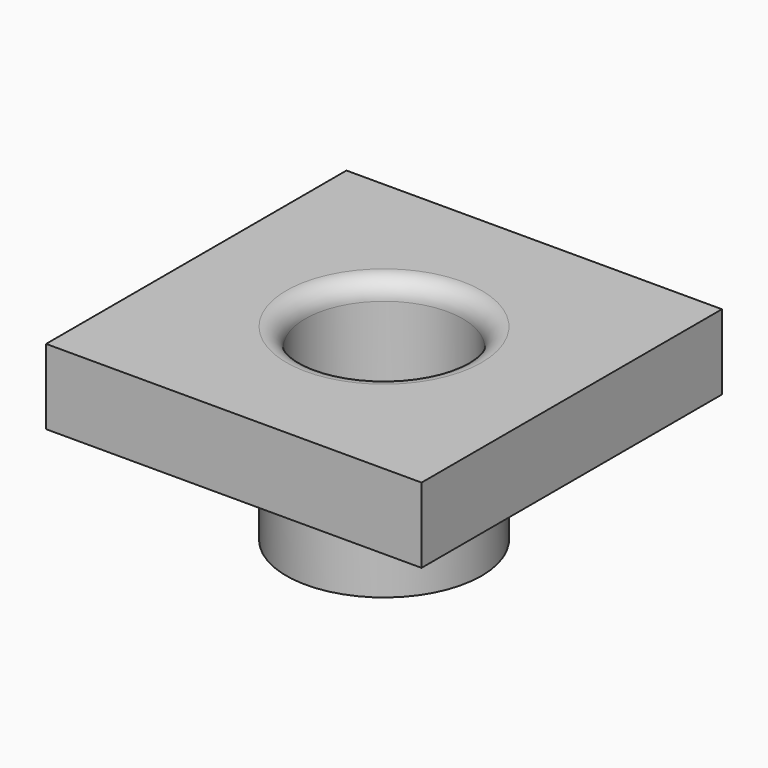
from build123d import *

# Parameters (mm, degrees)
F2_W     = 100
F2_H     = 100
F2_R     = 41
F2_R_2   = 26
F3_DEPTH = 20


with BuildPart() as f1:
    # F0 (on Front) → F1 (revolve)
    with BuildSketch(Plane.XZ):
        with BuildLine():
            Line((41, -5), (41, 0))
            Line((41, 0), (26, 0))
            ThreePointArc((26, 0), (22.464466, -1.464466), (21, -5))
            Line((21, -5), (21, -50))
            Line((21, -50), (26, -50))
            Line((26, -50), (26, -10))
            ThreePointArc((26, -10), (27.464466, -6.464466), (31, -5))
            Line((31, -5), (41, -5))
        make_face()
    revolve(axis=Axis((0, 0, -25.033533), (0, 0, -1)))

    # F2 (on face) → F3 (join)
    with BuildSketch(Plane.XY):
        Rectangle(F2_W, F2_H)
        Circle(F2_R, mode=Mode.SUBTRACT)
        Circle(F2_R)
        Circle(F2_R_2, mode=Mode.SUBTRACT)
    extrude(amount=-F3_DEPTH)


solid = f1.part
